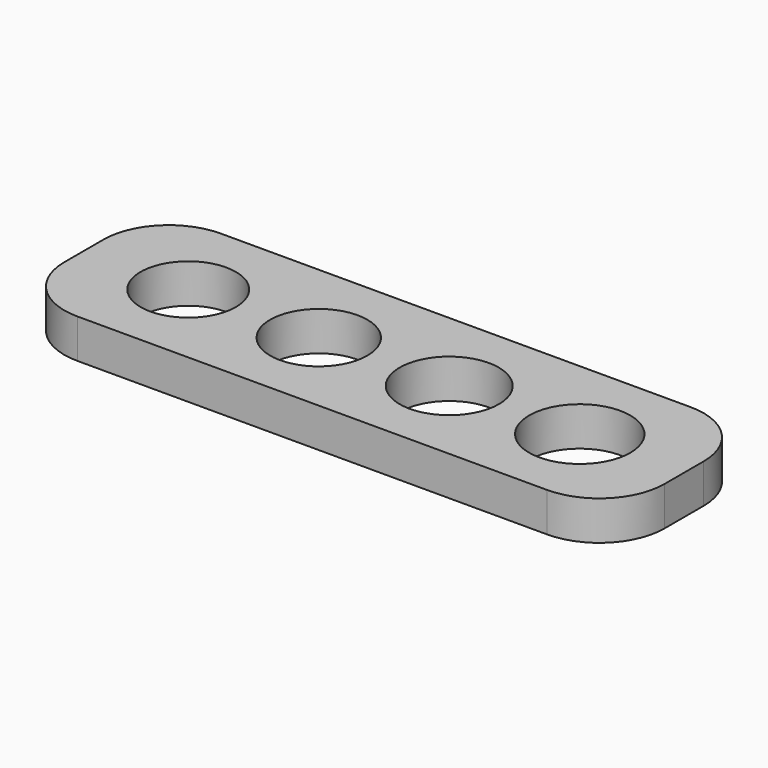
from build123d import *

# Parameters (mm, degrees)
F0_W     = 46
F0_H     = 13.75
F0_R     = 3.65
F0_R_2   = 3.725
F0_R_3   = 3.8
F0_R_4   = 3.875
F1_DEPTH = 3
F2_R     = 5


with BuildPart() as f1:
    # F0 (on Top) → F1 (new body)
    with BuildSketch(Plane.XY):
        with Locations((0.719291, 0)):
            Rectangle(F0_W, F0_H)
        with Locations((-14.280709, 0)):
            Circle(F0_R, mode=Mode.SUBTRACT)
        with Locations((-4.280709, 0)):
            Circle(F0_R_2, mode=Mode.SUBTRACT)
        with Locations((5.719291, 0)):
            Circle(F0_R_3, mode=Mode.SUBTRACT)
        with Locations((15.719291, 0)):
            Circle(F0_R_4, mode=Mode.SUBTRACT)
    extrude(amount=F1_DEPTH)

    # F2
    f2_edges = [f1.edges().sort_by_distance(p)[0] for p in [
        (-22.280709, 6.875, 1.5),
        (-22.280709, -6.875, 1.5),
        (23.719291, -6.875, 1.5),
        (23.719291, 6.875, 1.5),
    ]]
    fillet(f2_edges, radius=F2_R)


solid = f1.part
